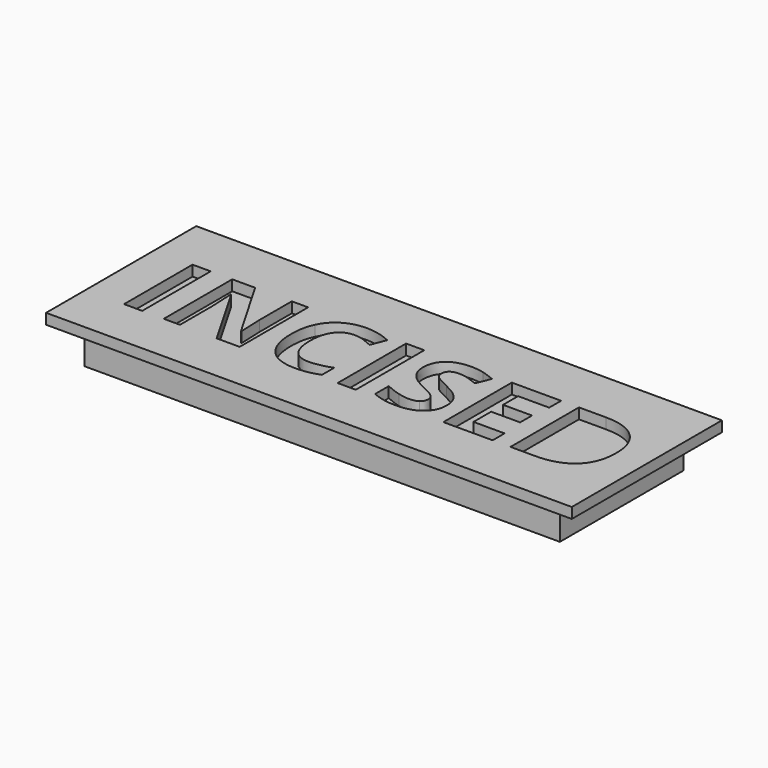
from build123d import *

# Parameters (mm, degrees)
F0_W     = 189.8058950901
F0_H     = 67.760951817
F0_W_2   = 6.5539043493
F0_H_2   = 30.9027749966
F1_DEPTH = 3.81
F2_W     = 171.5631633997
F2_H     = 55.6830503047
F3_DEPTH = 5.08
F4_DEPTH = 12.7


with BuildPart() as f1:
    # F0 (on Top) → F1 (new body)
    with BuildSketch(Plane.XY):
        Rectangle(F0_W, F0_H)
        with Locations((-77.7555048497, -0.57536364)):
            Rectangle(F0_W_2, F0_H_2, mode=Mode.SUBTRACT)
        with BuildLine():
            Line((-39.2876710145, 14.8760238584), (-39.2876710145, -16.0267511383))
            Line((-39.2876710145, -16.0267511383), (-47.6136320609, -16.0267511383))
            Line((-47.6136320609, -16.0267511383), (-61.0596195183, 7.3481646832))
            Line((-61.0596195183, 7.3481646832), (-61.2489996234, 7.3481646832))
            add(Edge.make_bspline(
                [(-61.2489996234, 7.3481646832), (-60.8431851126, 1.1594933937), (-60.8431851126, -1.4850645016)],
                knots=[0, 0, 0, 1, 1, 1], degree=2))
            Line((-60.8431851126, -1.4850645016), (-60.8431851126, -16.0267511383))
            Line((-60.8431851126, -16.0267511383), (-66.7004412183, -16.0267511383))
            Line((-66.7004412183, -16.0267511383), (-66.7004412183, 14.8760238584))
            Line((-66.7004412183, 14.8760238584), (-58.4353523486, 14.8760238584))
            Line((-58.4353523486, 14.8760238584), (-45.0164191918, -8.268930407))
            Line((-45.0164191918, -8.268930407), (-44.8676205378, -8.268930407))
            add(Edge.make_bspline(
                [(-44.8676205378, -8.268930407), (-45.1855085713, -2.2425849218), (-45.1855085713, 0.2464107444)],
                knots=[0, 0, 0, 1, 1, 1], degree=2))
            Line((-45.1855085713, 0.2464107444), (-45.1855085713, 14.8760238584))
            Line((-45.1855085713, 14.8760238584), (-39.2876710145, 14.8760238584))
        make_face(mode=Mode.SUBTRACT)
        with BuildLine():
            add(Edge.make_bspline(
                [(-14.9388003671, 9.2521110963), (-16.6905663387, 9.8642146501), (-18.3814601336, 9.8642146501)],
                knots=[0, 0, 0, 1, 1, 1], degree=2))
            add(Edge.make_bspline(
                [(-18.3814601336, 9.8642146501), (-22.081135757, 9.8642146501), (-24.110208311, 7.0843852512)],
                knots=[0, 0, 0, 1, 1, 1], degree=2))
            add(Edge.make_bspline(
                [(-24.110208311, 7.0843852512), (-26.1392808649, 4.3045558523), (-26.1392808649, -0.6599083297)],
                knots=[0, 0, 0, 1, 1, 1], degree=2))
            add(Edge.make_bspline(
                [(-26.1392808649, -0.6599083297), (-26.1392808649, -10.9946512045), (-18.3814601336, -10.9946512045)],
                knots=[0, 0, 0, 1, 1, 1], degree=2))
            add(Edge.make_bspline(
                [(-18.3814601336, -10.9946512045), (-15.1281804721, -10.9946512045), (-10.5018950491, -9.3713931613)],
                knots=[0, 0, 0, 1, 1, 1], degree=2))
            Line((-10.5018950491, -9.3713931613), (-10.5018950491, -14.8634162073))
            add(Edge.make_bspline(
                [(-10.5018950491, -14.8634162073), (-14.3030243002, -16.4528563746), (-18.996945475, -16.4528563746)],
                knots=[0, 0, 0, 1, 1, 1], degree=2))
            add(Edge.make_bspline(
                [(-18.996945475, -16.4528563746), (-25.7402299293, -16.4528563746), (-29.3113976242, -12.3608933908)],
                knots=[0, 0, 0, 1, 1, 1], degree=2))
            add(Edge.make_bspline(
                [(-29.3113976242, -12.3608933908), (-32.8825653192, -8.268930407), (-32.8825653192, -0.6193268786)],
                knots=[0, 0, 0, 1, 1, 1], degree=2))
            add(Edge.make_bspline(
                [(-32.8825653192, -0.6193268786), (-32.8825653192, 4.2031022246), (-31.12741756, 7.828378521)],
                knots=[0, 0, 0, 1, 1, 1], degree=2))
            add(Edge.make_bspline(
                [(-31.12741756, 7.828378521), (-29.3722698009, 11.4536548174), (-26.0851722635, 13.3846555312)],
                knots=[0, 0, 0, 1, 1, 1], degree=2))
            add(Edge.make_bspline(
                [(-26.0851722635, 13.3846555312), (-22.7980747261, 15.315656245), (-18.3814601336, 15.315656245)],
                knots=[0, 0, 0, 1, 1, 1], degree=2))
            add(Edge.make_bspline(
                [(-18.3814601336, 15.315656245), (-13.8836826391, 15.315656245), (-9.3385601182, 13.1445486123)],
                knots=[0, 0, 0, 1, 1, 1], degree=2))
            Line((-9.3385601182, 13.1445486123), (-11.4487955743, 7.8148513706))
            add(Edge.make_bspline(
                [(-11.4487955743, 7.8148513706), (-13.1870343955, 8.6400075426), (-14.9388003671, 9.2521110963)],
                knots=[0, 0, 0, 1, 1, 1], degree=2))
        make_face(mode=Mode.SUBTRACT)
        with Locations((-0.6507477997, -0.57536364)):
            Rectangle(F0_W_2, F0_H_2, mode=Mode.SUBTRACT)
        with BuildLine():
            add(Edge.make_bspline(
                [(27.0393289865, -2.3406567619), (28.6456780917, -4.4204561297), (28.6456780917, -7.4437742351)],
                knots=[0, 0, 0, 1, 1, 1], degree=2))
            add(Edge.make_bspline(
                [(28.6456780917, -7.4437742351), (28.6456780917, -11.6304272714), (25.6325053491, -14.041641823)],
                knots=[0, 0, 0, 1, 1, 1], degree=2))
            add(Edge.make_bspline(
                [(25.6325053491, -14.041641823), (22.6193326065, -16.4528563746), (17.2558174889, -16.4528563746)],
                knots=[0, 0, 0, 1, 1, 1], degree=2))
            add(Edge.make_bspline(
                [(17.2558174889, -16.4528563746), (12.3048804572, -16.4528563746), (8.5037512062, -14.586109625)],
                knots=[0, 0, 0, 1, 1, 1], degree=2))
            Line((8.5037512062, -14.586109625), (8.5037512062, -8.4988919631))
            add(Edge.make_bspline(
                [(8.5037512062, -8.4988919631), (11.6285229392, -9.8989520253), (13.7962487844, -10.4670923405)],
                knots=[0, 0, 0, 1, 1, 1], degree=2))
            add(Edge.make_bspline(
                [(13.7962487844, -10.4670923405), (15.9639746295, -11.0352326556), (17.7630856273, -11.0352326556)],
                knots=[0, 0, 0, 1, 1, 1], degree=2))
            add(Edge.make_bspline(
                [(17.7630856273, -11.0352326556), (19.9139025345, -11.0352326556), (21.0670921027, -10.2134582712)],
                knots=[0, 0, 0, 1, 1, 1], degree=2))
            add(Edge.make_bspline(
                [(21.0670921027, -10.2134582712), (22.2202816708, -9.3916838869), (22.2202816708, -7.7616622685)],
                knots=[0, 0, 0, 1, 1, 1], degree=2))
            add(Edge.make_bspline(
                [(22.2202816708, -7.7616622685), (22.2202816708, -6.8553431944), (21.7130135324, -6.1451678005)],
                knots=[0, 0, 0, 1, 1, 1], degree=2))
            add(Edge.make_bspline(
                [(21.7130135324, -6.1451678005), (21.2057453939, -5.4349924067), (20.2216452052, -4.7823074018)],
                knots=[0, 0, 0, 1, 1, 1], degree=2))
            add(Edge.make_bspline(
                [(20.2216452052, -4.7823074018), (19.2375450165, -4.129622397), (16.2142269112, -2.6889808837)],
                knots=[0, 0, 0, 1, 1, 1], degree=2))
            add(Edge.make_bspline(
                [(16.2142269112, -2.6889808837), (13.387052486, -1.3565565732), (11.9700834858, -0.1323494657)],
                knots=[0, 0, 0, 1, 1, 1], degree=2))
            add(Edge.make_bspline(
                [(11.9700834858, -0.1323494657), (10.5531144856, 1.0918576419), (9.7076675882, 2.7218792602)],
                knots=[0, 0, 0, 1, 1, 1], degree=2))
            add(Edge.make_bspline(
                [(9.7076675882, 2.7218792602), (8.8622206907, 4.3519008785), (8.8622206907, 6.5230085113)],
                knots=[0, 0, 0, 1, 1, 1], degree=2))
            add(Edge.make_bspline(
                [(8.8622206907, 6.5230085113), (8.8622206907, 10.6284986454), (11.6420500896, 12.9720774452)],
                knots=[0, 0, 0, 1, 1, 1], degree=2))
            add(Edge.make_bspline(
                [(11.6420500896, 12.9720774452), (14.4218794885, 15.315656245), (19.3254714939, 15.315656245)],
                knots=[0, 0, 0, 1, 1, 1], degree=2))
            add(Edge.make_bspline(
                [(19.3254714939, 15.315656245), (21.7333042579, 15.315656245), (23.9213208286, 14.7475159299)],
                knots=[0, 0, 0, 1, 1, 1], degree=2))
            add(Edge.make_bspline(
                [(23.9213208286, 14.7475159299), (26.1093373992, 14.1793756148), (28.4968794377, 13.1445486123)],
                knots=[0, 0, 0, 1, 1, 1], degree=2))
            Line((28.4968794377, 13.1445486123), (26.3866439816, 8.0448129267))
            add(Edge.make_bspline(
                [(26.3866439816, 8.0448129267), (23.9111754658, 9.0593492037), (22.2946809978, 9.4617819269)],
                knots=[0, 0, 0, 1, 1, 1], degree=2))
            add(Edge.make_bspline(
                [(22.2946809978, 9.4617819269), (20.6781865298, 9.8642146501), (19.1158006633, 9.8642146501)],
                knots=[0, 0, 0, 1, 1, 1], degree=2))
            add(Edge.make_bspline(
                [(19.1158006633, 9.8642146501), (17.2558174889, 9.8642146501), (16.2615719374, 8.9984770271)],
                knots=[0, 0, 0, 1, 1, 1], degree=2))
            add(Edge.make_bspline(
                [(16.2615719374, 8.9984770271), (15.267326386, 8.1327394041), (15.267326386, 6.739442917)],
                knots=[0, 0, 0, 1, 1, 1], degree=2))
            add(Edge.make_bspline(
                [(15.267326386, 6.739442917), (15.267326386, 5.873705294), (15.6697591092, 5.2277838643)],
                knots=[0, 0, 0, 1, 1, 1], degree=2))
            add(Edge.make_bspline(
                [(15.6697591092, 5.2277838643), (16.0721918324, 4.5818624347), (16.9480748182, 3.9799042437)],
                knots=[0, 0, 0, 1, 1, 1], degree=2))
            add(Edge.make_bspline(
                [(16.9480748182, 3.9799042437), (17.823957804, 3.3779460527), (21.097528191, 1.8155601861)],
                knots=[0, 0, 0, 1, 1, 1], degree=2))
            add(Edge.make_bspline(
                [(21.097528191, 1.8155601861), (25.4329798813, -0.2608573941), (27.0393289865, -2.3406567619)],
                knots=[0, 0, 0, 1, 1, 1], degree=2))
        make_face(mode=Mode.SUBTRACT)
        Polygon((52.0408846387, -10.6158909944), (52.0408846387, -16.0267511383), (34.2459183406, -16.0267511383), (34.2459183406, 14.8760238584), (52.0408846387, 14.8760238584), (52.0408846387, 9.5057451656), (40.7998226898, 9.5057451656), (40.7998226898, 2.7218792602), (51.263073493, 2.7218792602), (51.263073493, -2.6483994326), (40.7998226898, -2.6483994326), (40.7998226898, -10.6158909944), align=None, mode=Mode.SUBTRACT)
        with BuildLine():
            add(Edge.make_bspline(
                [(79.9406322555, 10.8821327147), (84.1272852918, 6.888241571), (84.1272852918, -0.2811481196)],
                knots=[0, 0, 0, 1, 1, 1], degree=2))
            add(Edge.make_bspline(
                [(84.1272852918, -0.2811481196), (84.1272852918, -7.9104609225), (79.7816882388, -11.9686060304)],
                knots=[0, 0, 0, 1, 1, 1], degree=2))
            add(Edge.make_bspline(
                [(79.7816882388, -11.9686060304), (75.4360911857, -16.0267511383), (67.2386380678, -16.0267511383)],
                knots=[0, 0, 0, 1, 1, 1], degree=2))
            Line((67.2386380678, -16.0267511383), (58.4865717851, -16.0267511383))
            Line((58.4865717851, -16.0267511383), (58.4865717851, 14.8760238584))
            Line((58.4865717851, 14.8760238584), (68.1855385929, 14.8760238584))
            add(Edge.make_bspline(
                [(68.1855385929, 14.8760238584), (75.7539792192, 14.8760238584), (79.9406322555, 10.8821327147)],
                knots=[0, 0, 0, 1, 1, 1], degree=2))
        make_face(mode=Mode.SUBTRACT)
    extrude(amount=F1_DEPTH)

    # F2 (on face) → F3 (cut)
    with BuildSketch(Plane(origin=(0, 0, 0), x_dir=(1, 0, 0), z_dir=(0, 0, -1))):
        Rectangle(F2_W, F2_H)
    extrude(amount=F3_DEPTH, mode=Mode.SUBTRACT)

    # F2 (on face) → F4 (join)
    with BuildSketch(Plane(origin=(0, 0, 0), x_dir=(1, 0, 0), z_dir=(0, 0, -1))):
        Rectangle(F2_W, F2_H)
    extrude(amount=F4_DEPTH)


solid = f1.part
